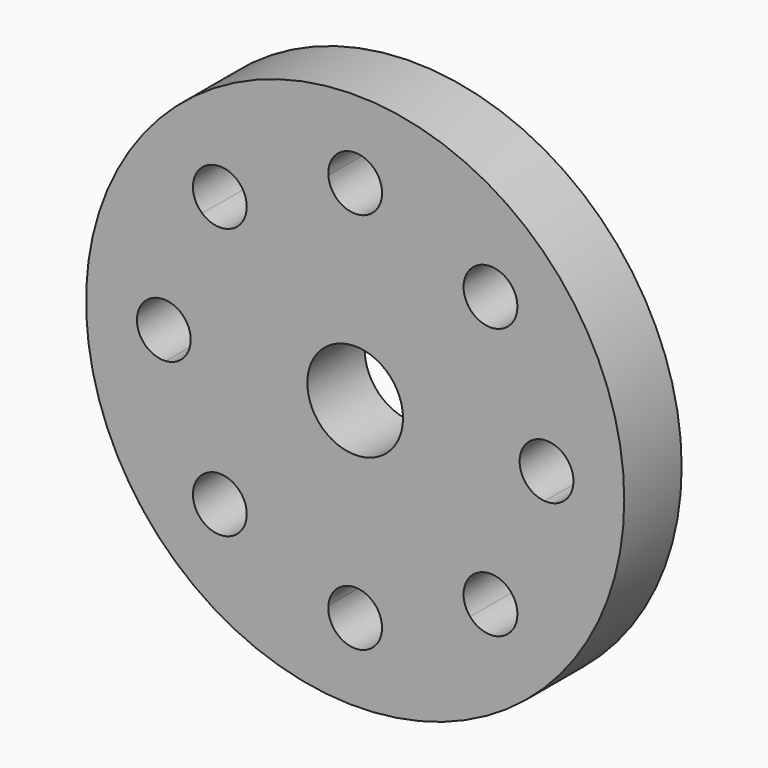
from build123d import *

# Parameters (mm, degrees)
F0_R     = 22.5
F0_R_2   = 4
F1_DEPTH = 6


with BuildPart() as f1:
    # F0 (on Front) → F1 (new body)
    with BuildSketch(Plane.XZ):
        Circle(F0_R)
        with BuildLine():
            ThreePointArc((12.788895, 9.614789), (14.782073, 6.122935), (15.841797, 2.244431))
            ThreePointArc((15.841797, 2.244431), (17.534038, 1.645973), (18.25, 0))
            ThreePointArc((18.25, 0), (17.534038, -1.645973), (15.841797, -2.244431))
            ThreePointArc((15.841797, -2.244431), (14.782073, -6.122935), (12.788895, -9.614789))
            ThreePointArc((12.788895, -9.614789), (13.360861, -10.380078), (13.563708, -11.313708))
            ThreePointArc((13.563708, -11.313708), (12.101088, -13.42144), (9.614789, -12.788895))
            ThreePointArc((9.614789, -12.788895), (6.122935, -14.782073), (2.244431, -15.841797))
            ThreePointArc((2.244431, -15.841797), (2.248607, -15.920849), (2.25, -16))
            ThreePointArc((2.25, -16), (-0.079151, -18.248607), (-2.244431, -15.841797))
            ThreePointArc((-2.244431, -15.841797), (-6.122935, -14.782073), (-9.614789, -12.788895))
            ThreePointArc((-9.614789, -12.788895), (-12.904699, -12.904699), (-12.788895, -9.614789))
            ThreePointArc((-12.788895, -9.614789), (-14.782073, -6.122935), (-15.841797, -2.244431))
            ThreePointArc((-15.841797, -2.244431), (-18.25, 0), (-15.841797, 2.244431))
            ThreePointArc((-15.841797, 2.244431), (-14.782073, 6.122935), (-12.788895, 9.614789))
            ThreePointArc((-12.788895, 9.614789), (-12.904699, 12.904699), (-9.614789, 12.788895))
            ThreePointArc((-9.614789, 12.788895), (-6.122935, 14.782073), (-2.244431, 15.841797))
            ThreePointArc((-2.244431, 15.841797), (-0.079151, 18.248607), (2.25, 16))
            ThreePointArc((2.25, 16), (2.248607, 15.920849), (2.244431, 15.841797))
            ThreePointArc((2.244431, 15.841797), (6.122935, 14.782073), (9.614789, 12.788895))
            ThreePointArc((9.614789, 12.788895), (12.101088, 13.42144), (13.563708, 11.313708))
            ThreePointArc((13.563708, 11.313708), (13.360861, 10.380078), (12.788895, 9.614789))
        make_face(mode=Mode.SUBTRACT)
        with BuildLine():
            ThreePointArc((15.841797, -2.244431), (13.75, 0), (15.841797, 2.244431))
            ThreePointArc((15.841797, 2.244431), (14.782073, 6.122935), (12.788895, 9.614789))
            ThreePointArc((12.788895, 9.614789), (9.722718, 9.722718), (9.614789, 12.788895))
            ThreePointArc((9.614789, 12.788895), (6.122935, 14.782073), (2.244431, 15.841797))
            ThreePointArc((2.244431, 15.841797), (0, 13.75), (-2.244431, 15.841797))
            ThreePointArc((-2.244431, 15.841797), (-6.122935, 14.782073), (-9.614789, 12.788895))
            ThreePointArc((-9.614789, 12.788895), (-9.205977, 12.101088), (-9.063708, 11.313708))
            ThreePointArc((-9.063708, 11.313708), (-10.380078, 9.266556), (-12.788895, 9.614789))
            ThreePointArc((-12.788895, 9.614789), (-14.782073, 6.122935), (-15.841797, 2.244431))
            ThreePointArc((-15.841797, 2.244431), (-14.354027, 1.534038), (-13.75, 0))
            ThreePointArc((-13.75, 0), (-14.354027, -1.534038), (-15.841797, -2.244431))
            ThreePointArc((-15.841797, -2.244431), (-14.782073, -6.122935), (-12.788895, -9.614789))
            ThreePointArc((-12.788895, -9.614789), (-10.380078, -9.266556), (-9.063708, -11.313708))
            ThreePointArc((-9.063708, -11.313708), (-9.205977, -12.101088), (-9.614789, -12.788895))
            ThreePointArc((-9.614789, -12.788895), (-6.122935, -14.782073), (-2.244431, -15.841797))
            ThreePointArc((-2.244431, -15.841797), (0, -13.75), (2.244431, -15.841797))
            ThreePointArc((2.244431, -15.841797), (6.122935, -14.782073), (9.614789, -12.788895))
            ThreePointArc((9.614789, -12.788895), (9.722718, -9.722718), (12.788895, -9.614789))
            ThreePointArc((12.788895, -9.614789), (14.782073, -6.122935), (15.841797, -2.244431))
        make_face()
        Circle(F0_R_2, mode=Mode.SUBTRACT)
    extrude(amount=F1_DEPTH)


solid = f1.part
